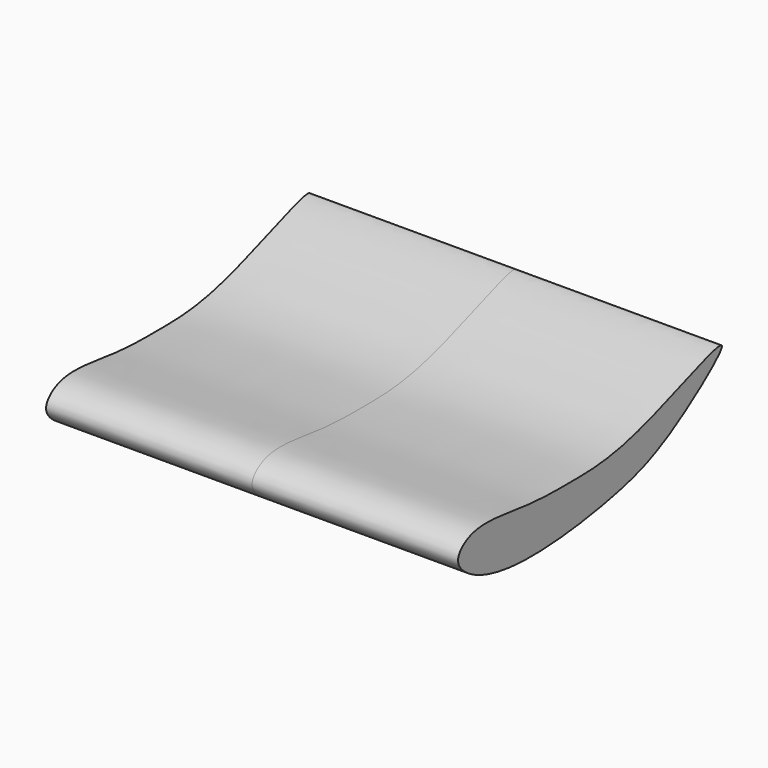
from build123d import *

# Parameters (mm, degrees)
F1_DEPTH = 63.5


with BuildPart() as f1:
    # F0 (on Right) → F1 (new body, symmetric)
    with BuildSketch(Plane.YZ):
        with BuildLine():
            add(Edge.make_bspline(
                [(38.3559891808, 29.7289855858), (37.2244760187, 31.4801123312), (3.2701520581, 16.3858931685), (-18.7501435476, 16.3526461947), (-36.9567467779, 16.2766648832), (-56.8508865225, 20.296371385), (-65.2608754018, 13.0987930888), (-59.1430744386, 6.3648068736), (-44.8529004762, 1.7875768082), (-22.4535383382, 2.44687948), (-0.7343853345, 6.0558213722), (17.2292467009, 11.4700856482), (39.3171193453, 28.2415431123), (38.3559891808, 29.7289855858)],
                knots=[0, 0, 0, 0, 0.1212880345, 0.2280827085, 0.3164349764, 0.4096389028, 0.4676079322, 0.5211875288, 0.6016567435, 0.701385453, 0.7977271178, 0.8969754905, 1, 1, 1, 1], degree=3))
        make_face()
    extrude(amount=F1_DEPTH, both=True)


solid = f1.part
